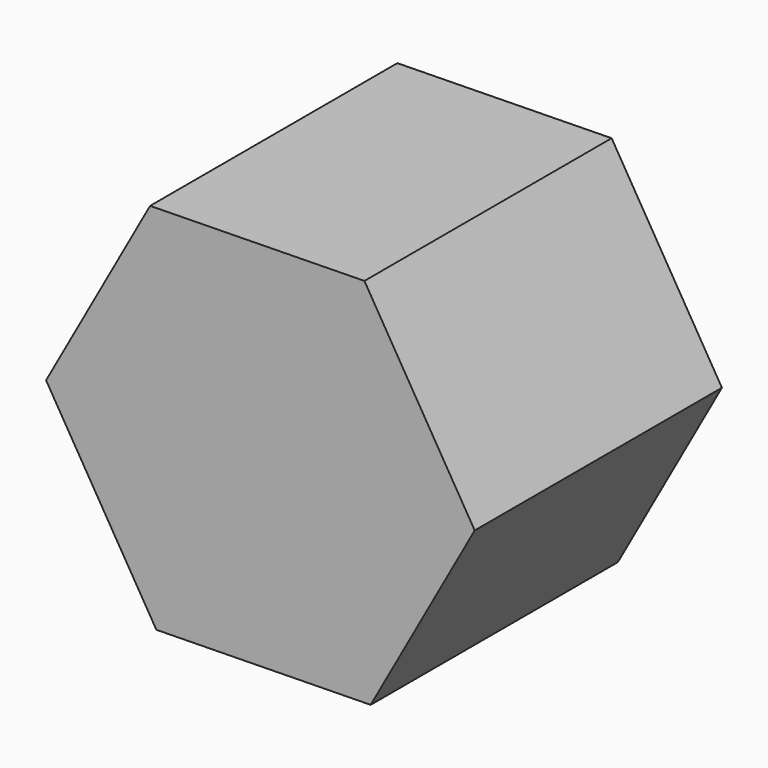
from build123d import *


with BuildPart() as f2:
    # F2: sweep along a path in F1
    with BuildLine(Plane.XY) as f2_path:
        Line((0, 0), (0, 17.78))
    # F0 (on Front) → F2 (sweep)
    with BuildSketch(Plane.XZ):
        Polygon((12.330452, 0.207421), (5.985594, 10.782195), (-6.344858, 10.574774), (-12.330452, -0.207421), (-5.985594, -10.782195), (6.344858, -10.574774), align=None)
    sweep(path=f2_path.line)


solid = f2.part
